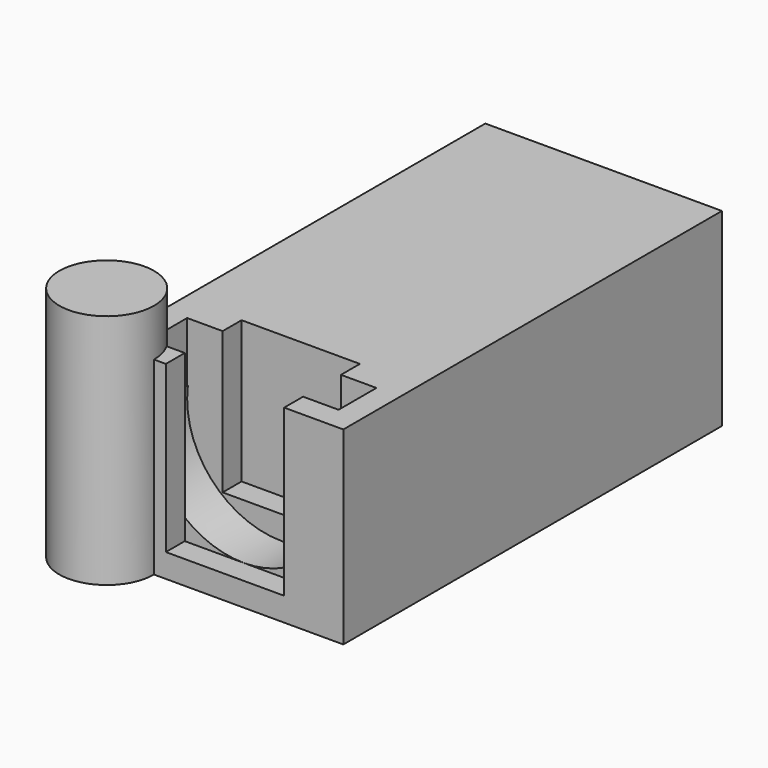
from build123d import *

# Parameters (mm, degrees)
BOX003_W            = 8
BOX003_H            = 2
BOX003_DEPTH        = 2.5
BOX002_W            = 5
BOX002_H            = 1
BOX002_DEPTH        = 6
BOX001_W            = 5
BOX001_H            = 1
BOX001_DEPTH        = 7
CYLINDER_R          = 4
CYLINDER_DEPTH      = 2
CYLINDER_ROLL_ANGLE = 90
BOX_W               = 10
BOX_H               = 20
BOX_DEPTH           = 8
CYLINDER001_R       = 2
CYLINDER001_DEPTH   = 10


with BuildPart() as cylinder_edge_refinement:
    # Box003 → Box003 (new body)
    with BuildSketch(Plane(origin=(1, 1, 5.5), x_dir=(1, 0, 0), z_dir=(0, 0, 1))):
        with Locations((4, 1)):
            Rectangle(BOX003_W, BOX003_H)
    extrude(amount=BOX003_DEPTH)


with BuildPart() as interior_opening:
    # Box002 → Box002 (new body)
    with BuildSketch(Plane(origin=(2.5, 3, 2), x_dir=(1, 0, 0), z_dir=(0, 0, 1))):
        with Locations((2.5, 0.5)):
            Rectangle(BOX002_W, BOX002_H)
    extrude(amount=BOX002_DEPTH)


with BuildPart() as end_opening:
    # Box001 → Box001 (new body)
    with BuildSketch(Plane(origin=(2.5, 0, 1), x_dir=(1, 0, 0), z_dir=(0, 0, 1))):
        with Locations((2.5, 0.5)):
            Rectangle(BOX001_W, BOX001_H)
    extrude(amount=BOX001_DEPTH)


with BuildPart() as solenoid_head_slot:
    # Cylinder → Cylinder (new body)
    with BuildSketch(Plane.XY):
        Circle(CYLINDER_R)
    extrude(amount=CYLINDER_DEPTH)


with BuildPart() as solenoid_head_slot_1:
    # Cylinder roll: moved
    add(solenoid_head_slot.part.rotate(Axis((0, 0, 0), (1, 0, 0)), CYLINDER_ROLL_ANGLE))


with BuildPart() as solenoid_head_slot_2:
    # Cylinder placement: moved
    add(solenoid_head_slot_1.part.moved(Location((5, 3, 5))))


with BuildPart() as cut003:
    # Box → Box (new body)
    with BuildSketch(Plane.XY):
        with Locations((5, 10)):
            Rectangle(BOX_W, BOX_H)
    extrude(amount=BOX_DEPTH)

    # Cut: cut solenoid_head_slot
    add(solenoid_head_slot_2.part, mode=Mode.SUBTRACT)

    # Cut001: cut end_opening
    add(end_opening.part, mode=Mode.SUBTRACT)

    # Cut002: cut interior_opening
    add(interior_opening.part, mode=Mode.SUBTRACT)

    # Cut003: cut cylinder_edge_refinement
    add(cylinder_edge_refinement.part, mode=Mode.SUBTRACT)


with BuildPart() as rounded_top:
    # Cylinder001 → Cylinder001 (new body)
    with BuildSketch(Plane.XY):
        Circle(CYLINDER001_R)
    extrude(amount=CYLINDER001_DEPTH)


solid = Compound([cut003.part, rounded_top.part])
